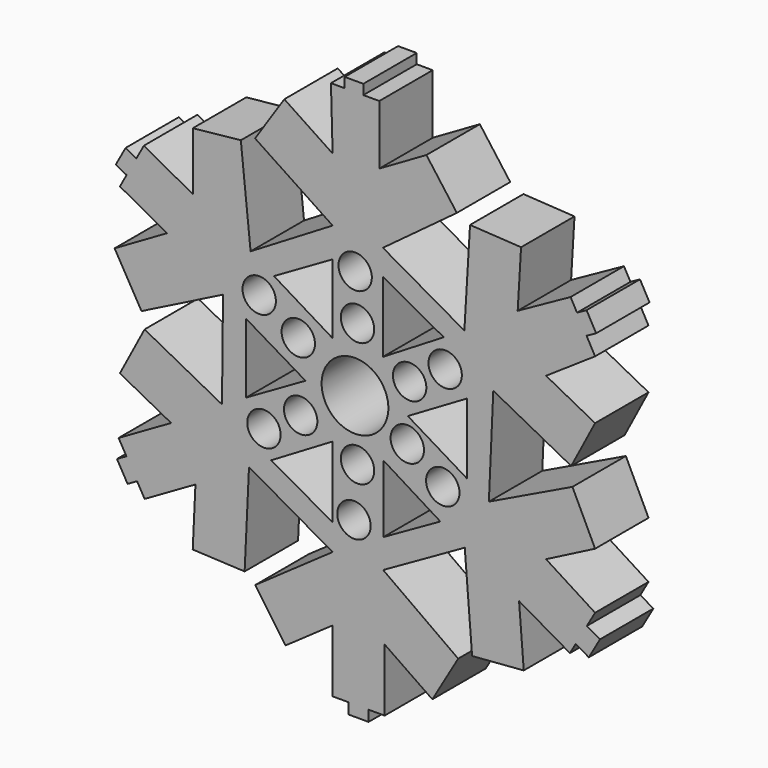
from build123d import *

# Parameters (mm, degrees)
F0_W     = 1.4192797244
F0_H     = 0.7559135556
F0_W_2   = 1.5276372433
F0_H_2   = 0.821922149
F1_DEPTH = 5.08
F3_D     = 5.08
F16_D    = 2.54
F17_D    = 2.54
F18_D    = 2.54
F19_D    = 2.54
F20_D    = 2.54
F21_D    = 2.54
F22_D    = 2.54
F23_D    = 2.54
F24_D    = 2.54
F25_D    = 2.54
F26_D    = 2.54
F27_D    = 2.54


with BuildPart() as f1:
    # F0 (on Front) → F1 (new body)
    with BuildSketch(Plane.XZ):
        Polygon((-22.9968726635, 42.3126220703), (-24.0396112204, 42.3126220703), (-23.9130631089, 37.6422533683), (-27.5855498346, 40.0842883347), (-29.8122577369, 36.7356240749), (-23.9130631089, 32.8129306436), (-23.9130631089, 30.5526573211), (-23.9130631089, 25.2665821463), (-28.3773863184, 27.9790678606), (-30.1533350523, 29.0581195654), (-30.897045508, 36.2559482455), (-34.5488109312, 35.8786322176), (-34.5488109312, 31.4557254833), (-38.2708328584, 33.4987355549), (-38.8486688201, 32.4460152822), (-39.5886734839, 31.0978508149), (-40.0970317423, 30.1717072725), (-36.5123793412, 28.2040990472), (-40.4995033926, 25.8957650515), (-38.450665772, 22.3568622023), (-32.2511233389, 25.4756510258), (-30.4993555618, 24.4352070583), (-25.9755142033, 21.7483192682), (-30.4993555618, 19.148359909), (-32.3296703771, 18.0964343976), (-38.2196328624, 21.207898243), (-40.0970317423, 17.6540054381), (-36.1978308162, 15.5941921986), (-40.1960664707, 13.2942146556), (-39.6006508042, 12.2591557897), (-38.790906044, 10.8515114494), (-38.2163748145, 9.8527576774), (-34.3487829088, 12.0775826495), (-34.5557542526, 7.6535682905), (-30.6067895144, 7.4688214809), (-30.2744992077, 14.5715298131), (-28.5829074003, 15.5766311017), (-23.9130631089, 18.3513350785), (-23.9130631089, 12.9318498075), (-23.9130631089, 10.946790142), (-29.8032763032, 6.8207080641), (-27.4943839759, 3.5246349871), (-23.9130631089, 6.0333427973), (-23.9130631089, 1.2797450181), (-22.7054376155, 1.2797450181), (-21.1778003722, 1.2797450181), (-19.952988252, 1.2797450181), (-19.952988252, 6.044047419), (-16.3245014846, 3.5494628828), (-14.3590718508, 6.9133723155), (-20.0663805008, 10.9954206273), (-20.0550059627, 13.2019692024), (-20.0285818428, 18.3279886842), (-15.7154238075, 15.6576944664), (-13.8587799241, 14.5082384562), (-13.3001293296, 7.4345099906), (-9.3699013814, 7.7449013479), (-9.7278654156, 12.2775025894), (-5.8548050001, 10.0505026057), (-5.4199136441, 10.8068387119), (-4.568640864, 12.2873195971), (-3.9422987452, 13.3766150102), (-7.6739792712, 15.7493855804), (-3.9422987452, 17.6644706865), (-5.6661837734, 21.2469194084), (-12.0242014527, 18.1874223053), (-13.6816729537, 19.189614399), (-18.1910004467, 21.9161845744), (-13.6816729537, 24.5599445899), (-11.6887243355, 25.7283844245), (-5.7599901473, 22.6144351328), (-3.9422987452, 26.0751880705), (-7.6739792712, 28.0351787806), (-3.9422987452, 30.5491588676), (-4.5895827798, 31.7159527215), (-5.3169873732, 33.0271718518), (-5.809597671, 33.9151509106), (-9.8331745535, 31.6830538959), (-9.5743191002, 36.0260785228), (-13.4583404288, 36.2575761974), (-13.8885816559, 29.0390755981), (-15.4547147461, 28.084917372), (-20.0873508675, 25.2625085413), (-20.0873508675, 30.6201688945), (-20.0873508675, 32.5695575383), (-14.4622381777, 36.7356240749), (-16.7762544006, 39.8600585759), (-20.3607678413, 37.7848148346), (-20.3607678413, 42.3126220703), (-21.5775929391, 42.3126220703), align=None)
        with Locations((-22.2872328013, 42.6905788481)):
            Rectangle(F0_W, F0_H)
        Polygon((-23.9130631089, 30.5526573211), (-23.9130631089, 32.8129306436), (-30.1533350523, 29.0581195654), (-28.3773863184, 27.9790678606), align=None)
        Polygon((-13.8885816559, 29.0390755981), (-20.0873508675, 32.5695575383), (-20.0873508675, 30.6201688945), (-15.4547147461, 28.084917372), align=None)
        Polygon((-39.5886734839, 31.0978508149), (-38.8486688201, 32.4460152822), (-39.664609785, 32.8938835758), (-40.4046144488, 31.5457191085), align=None)
        Polygon((-4.5909064128, 33.4299684657), (-5.3169873732, 33.0271718518), (-4.5895827798, 31.7159527215), (-3.8635018193, 32.1187493355), align=None)
        Polygon((-30.4993555618, 24.4352070583), (-32.2511233389, 25.4756510258), (-32.3296703771, 18.0964343976), (-30.4993555618, 19.148359909), align=None)
        Polygon((-12.0242014527, 18.1874223053), (-11.6887243355, 25.7283844245), (-13.6816729537, 24.5599445899), (-13.6816729537, 19.189614399), align=None)
        Polygon((-38.790906044, 10.8515114494), (-39.6006508042, 12.2591557897), (-40.3208764938, 11.8448473159), (-39.5111317337, 10.4372029756), align=None)
        Polygon((-3.5707916424, 11.713558808), (-4.568640864, 12.2873195971), (-5.4199136441, 10.8068387119), (-4.4220644224, 10.2330779228), align=None)
        Polygon((-28.5829074003, 15.5766311017), (-30.2744992077, 14.5715298131), (-23.9130631089, 10.946790142), (-23.9130631089, 12.9318498075), align=None)
        Polygon((-20.0663805008, 10.9954206273), (-13.8587799241, 14.5082384562), (-15.7154238075, 15.6576944664), (-20.0550059627, 13.2019692024), align=None)
        with Locations((-21.9416189939, 0.8687839436)):
            Rectangle(F0_W_2, F0_H_2)
    extrude(amount=F1_DEPTH)

    # F3 (through all)
    with Locations(Plane(origin=(0, 0, 0), x_dir=(1, 0, 0), z_dir=(0, 1, 0))):
        with Locations((-22.2109630704, -21.9656527042)):
            Hole(F3_D / 2)

    # F16 (through all)
    with Locations(Plane(origin=(0, 0, 0), x_dir=(1, 0, 0), z_dir=(0, 1, 0))):
        with Locations((-22.1980046481, -30.305903405)):
            Hole(F16_D / 2)

    # F17 (through all)
    with Locations(Plane(origin=(0, 0, 0), x_dir=(1, 0, 0), z_dir=(0, 1, 0))):
        with Locations((-22.0177676529, -26.8813967705)):
            Hole(F17_D / 2)

    # F18 (through all)
    with Locations(Plane(origin=(0, 0, 0), x_dir=(1, 0, 0), z_dir=(0, 1, 0))):
        with Locations((-18.0525481701, -24.2679584771)):
            Hole(F18_D / 2)

    # F19 (through all)
    with Locations(Plane(origin=(0, 0, 0), x_dir=(1, 0, 0), z_dir=(0, 1, 0))):
        with Locations((-15.3489904478, -25.9802117944)):
            Hole(F19_D / 2)

    # F20 (through all)
    with Locations(Plane(origin=(0, 0, 0), x_dir=(1, 0, 0), z_dir=(0, 1, 0))):
        with Locations((-18.2327851653, -20.0323835015)):
            Hole(F20_D / 2)

    # F21 (through all)
    with Locations(Plane(origin=(0, 0, 0), x_dir=(1, 0, 0), z_dir=(0, 1, 0))):
        with Locations((-15.529227443, -18.0497746915)):
            Hole(F21_D / 2)

    # F22 (through all)
    with Locations(Plane(origin=(0, 0, 0), x_dir=(1, 0, 0), z_dir=(0, 1, 0))):
        with Locations((-22.0177676529, -17.4189452082)):
            Hole(F22_D / 2)

    # F23 (through all)
    with Locations(Plane(origin=(0, 0, 0), x_dir=(1, 0, 0), z_dir=(0, 1, 0))):
        with Locations((-22.2881231457, -13.633963652)):
            Hole(F23_D / 2)

    # F24 (through all)
    with Locations(Plane(origin=(0, 0, 0), x_dir=(1, 0, 0), z_dir=(0, 1, 0))):
        with Locations((-26.3434592634, -19.3114355206)):
            Hole(F24_D / 2)

    # F25 (through all)
    with Locations(Plane(origin=(0, 0, 0), x_dir=(1, 0, 0), z_dir=(0, 1, 0))):
        with Locations((-29.1371364146, -17.5090637058)):
            Hole(F25_D / 2)

    # F26 (through all)
    with Locations(Plane(origin=(0, 0, 0), x_dir=(1, 0, 0), z_dir=(0, 1, 0))):
        with Locations((-26.5236981213, -24.4481954724)):
            Hole(F26_D / 2)

    # F27 (through all)
    with Locations(Plane(origin=(0, 0, 0), x_dir=(1, 0, 0), z_dir=(0, 1, 0))):
        with Locations((-29.4976104051, -26.3406857848)):
            Hole(F27_D / 2)


solid = f1.part
